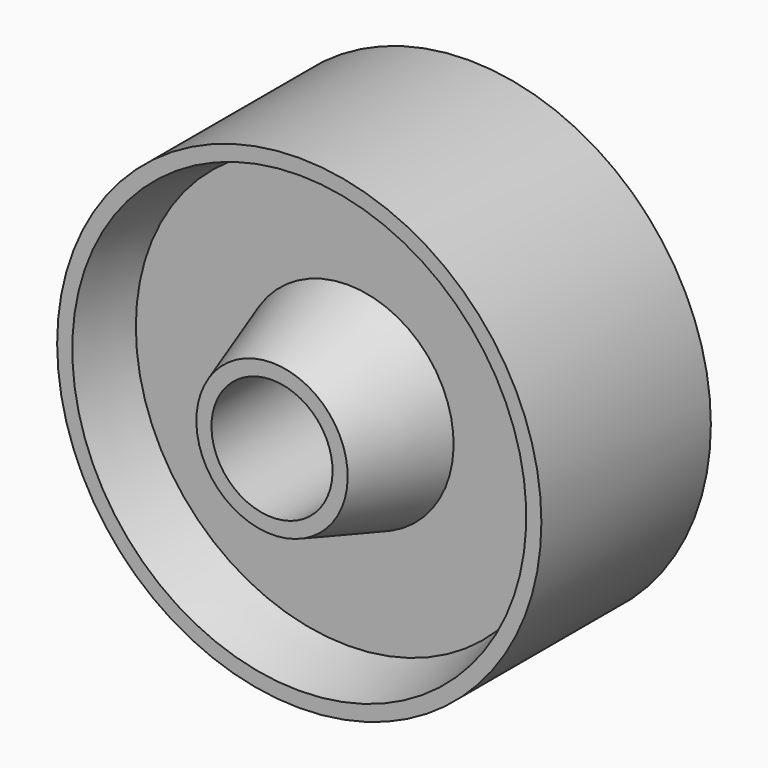
from build123d import *


with BuildPart() as f1:
    # F0 (on Right) → F1 (revolve)
    with BuildSketch(Plane.YZ):
        Polygon((-46.801966, 39.576525), (-46.801966, 36.401525), (-26.958216, 36.401525), (-26.958216, 45.926525), align=None)
        Polygon((-26.958216, 45.926525), (-26.958216, 36.401525), (-7.908216, 36.401525), (-7.908216, 45.926525), (-7.908216, 68.151525), (-7.908216, 74.501525), (-17.433216, 74.501525), (-26.958216, 74.501525), (-26.958216, 68.151525), align=None)
        Polygon((-7.908216, 45.926525), (-7.908216, 36.401525), (11.935534, 36.401525), (11.935534, 39.576525), align=None)
        Polygon((-39.658216, 71.326525), (-26.958216, 68.151525), (-26.958216, 74.501525), (-39.658216, 74.501525), align=None)
        Polygon((-7.908216, 74.501525), (-7.908216, 68.151525), (4.791784, 71.326525), (4.791784, 74.501525), align=None)
    revolve(axis=Axis((0, 4.550466, 23.701525), (0, 1, 0)))


solid = f1.part
